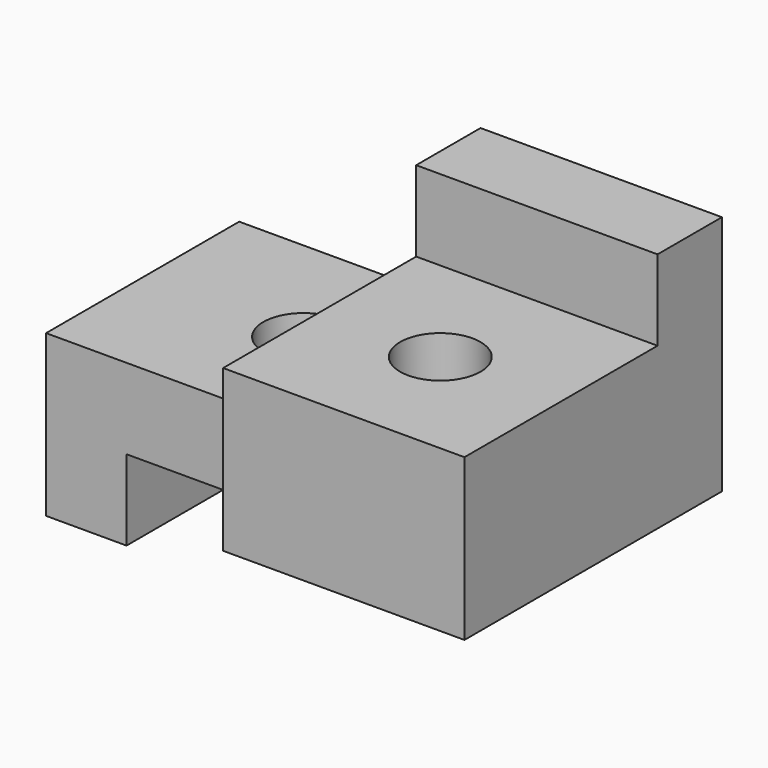
from build123d import *

# Parameters (mm, degrees)
F0_W      = 6.35
F0_H      = 12.7
F1_DEPTH  = 19.05
F2_W      = 19.05
F2_H      = 6.35
F3_DEPTH  = 12.7
F4_R      = 3.175
F5_DEPTH  = 12.701
F6_W      = 6.35
F6_H      = 19.05
F7_DEPTH  = 19.05
F8_W      = 19.05
F8_H      = 12.7
F9_DEPTH  = 19.05
F10_R     = 3.175
F11_DEPTH = 19.051


with BuildPart() as f1:
    # F0 (on Front) → F1 (new body)
    with BuildSketch(Plane.XZ):
        with Locations((3.175, -6.35)):
            Rectangle(F0_W, F0_H)
    extrude(amount=-F1_DEPTH)

    # F2 (on face) → F3 (join)
    with BuildSketch(Plane.YZ.offset(6.35)):
        with Locations((9.525, -3.175)):
            Rectangle(F2_W, F2_H)
    extrude(amount=F3_DEPTH)

    # F4 (on face) → F5 (cut, through all)
    with BuildSketch(Plane.XY):
        with Locations((12.7, 9.525)):
            Circle(F4_R)
    extrude(amount=-F5_DEPTH, mode=Mode.SUBTRACT)

    # F6 (on face) → F7 (join)
    with BuildSketch(Plane.YZ.offset(19.05)):
        with Locations((15.875, 3.175)):
            Rectangle(F6_W, F6_H)
    extrude(amount=F7_DEPTH)

    # F8 (on face) → F9 (join)
    with BuildSketch(Plane.XZ.offset(-12.7)):
        with Locations((28.575, 0)):
            Rectangle(F8_W, F8_H)
    extrude(amount=F9_DEPTH)

    # F10 (on face) → F11 (cut, through all)
    with BuildSketch(Plane.XY.offset(6.35)):
        with Locations((28.575, 3.175)):
            Circle(F10_R)
    extrude(amount=-F11_DEPTH, mode=Mode.SUBTRACT)


solid = f1.part
